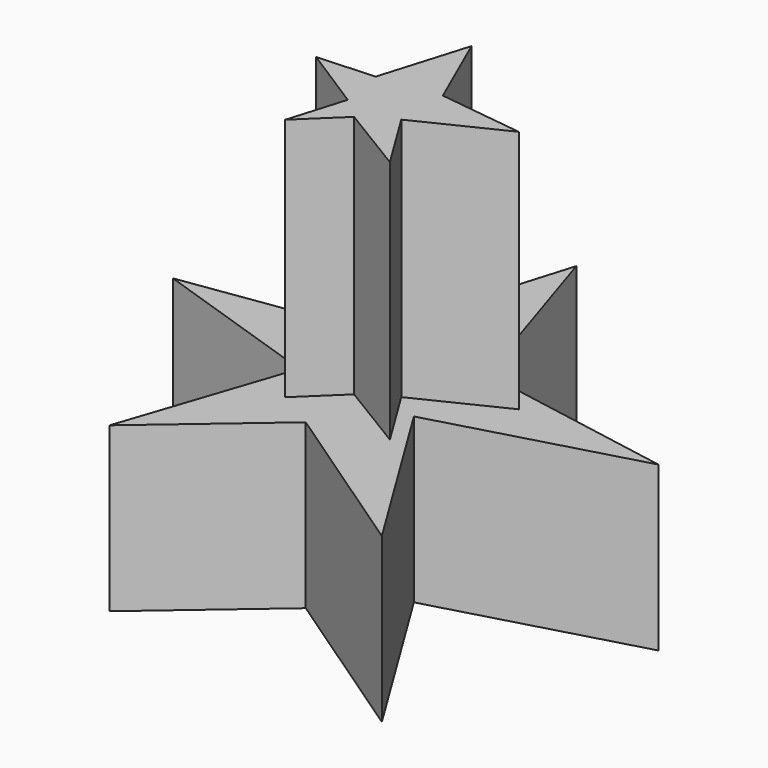
from build123d import *

# Parameters (mm, degrees)
F1_DEPTH = 34.036
F3_DEPTH = 25.4
F4_DEPTH = 25.4


with BuildPart() as f1:
    # F0 (on Top) → F1 (new body)
    with BuildSketch(Plane.XY):
        Polygon((0, 61.9426332414), (-11.7109799758, 23.0268388987), (-48.476384759, 17.6629981817), (-12.558279559, 5.6331055239), (-24.2008212954, -29.1284713894), (0, -8.3885807544), (34.6354208887, -31.8980328739), (12.4329142272, 4.1770320386), (54.0130585432, 15.7661139965), (12.4329142272, 23.1984425336), align=None)
    extrude(amount=F1_DEPTH)

    # F2 (on face) → F3 (join)
    with BuildSketch(Plane.XY.offset(34.036)):
        Polygon((-0.6540262179, 35.5291943997), (-6.1076348647, 17.4067560583), (-17.9816167802, 16.7758520693), (-4.5490903707, 8.2113984972), (-8.1022512168, -3.595818067), (0, 4.1770320386), (14.4822600718, -4.6202587845), (6.5849781968, 8.2113984972), (24.167701602, 16.7758520693), (6.5849781968, 19.013568759), align=None)
    extrude(amount=F3_DEPTH)

    # F4 (add): faces of the model
    f4_faces = [f1.faces().sort_by_distance(p)[0] for p in [
        (2.0638744173, 13.7880141108, 59.436),
        (2.0271315912, 10.6742348057, 0),
    ]]
    extrude(f4_faces, amount=F4_DEPTH, dir=(0, 0, 1))


solid = f1.part
